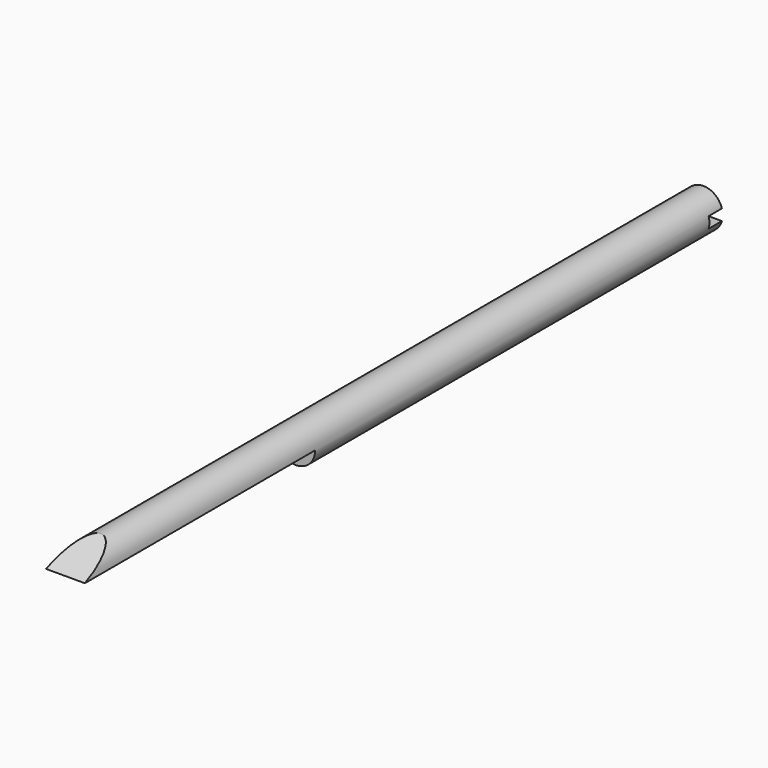
from build123d import *

# Parameters (mm, degrees)
F0_R     = 11.1125
F1_DEPTH = 457.2
F2_W     = 165.1
F2_H     = 11.1125
F2_W_2   = 19.05
F2_H_2   = 6.35
F3_DEPTH = 12.7


with BuildPart() as f1:
    # F0 (on Front) → F1 (new body)
    with BuildSketch(Plane.XZ):
        Circle(F0_R)
    extrude(amount=F1_DEPTH)

    # F2 (on Right) → F3 (cut, symmetric)
    with BuildSketch(Plane.YZ):
        with Locations((-374.65, -5.55625)):
            Rectangle(F2_W, F2_H)
        Polygon((-457.2, 11.1125), (-457.2, 0), (-431.8, 11.1125), align=None)
        Rectangle(F2_W_2, F2_H_2)
    extrude(amount=F3_DEPTH, both=True, mode=Mode.SUBTRACT)


solid = f1.part
